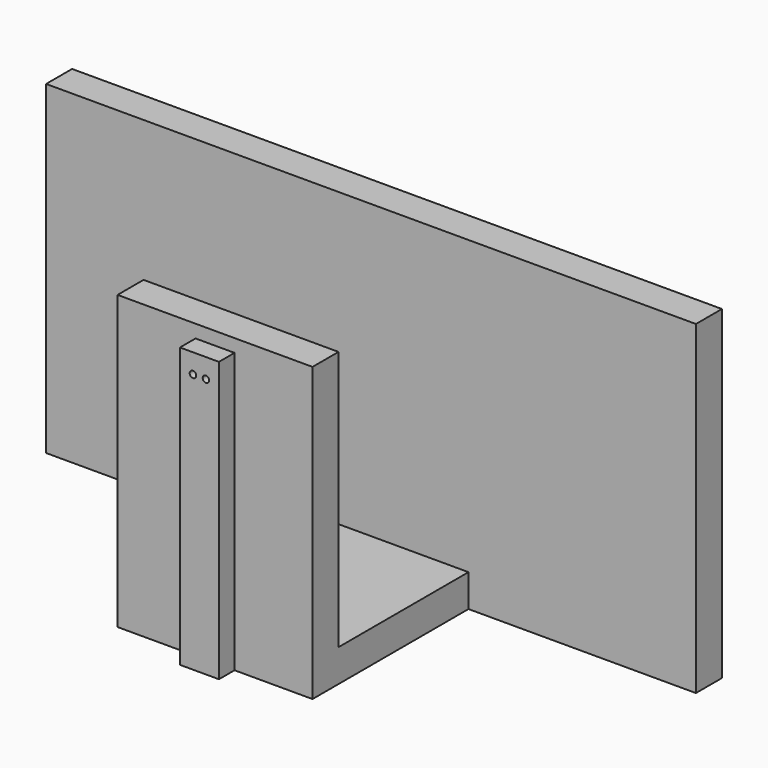
from build123d import *

# Parameters (mm, degrees)
F0_W      = 30
F0_H      = 30
F1_DEPTH  = 5
F2_W      = 30
F2_H      = 5
F3_DEPTH  = 40
F4_W      = 100
F4_H      = 50
F5_DEPTH  = 5
F6_R      = 2.5
F7_DEPTH  = 5
F8_W      = 6
F8_H      = 43
F9_DEPTH  = 3
F10_R     = 0.5
F11_DEPTH = 3


with BuildPart() as f1:
    # F0 (on Top) → F1 (new body)
    with BuildSketch(Plane.XY):
        Rectangle(F0_W, F0_H)
    extrude(amount=F1_DEPTH)

    # F2 (on face) → F3 (join)
    with BuildSketch(Plane.XY.offset(5)):
        with Locations((0, -12.5)):
            Rectangle(F2_W, F2_H)
    extrude(amount=F3_DEPTH)

    # F4 (on face) → F5 (join)
    with BuildSketch(Plane(origin=(0, 15, 0), x_dir=(-1, 0, 0), z_dir=(0, 1, 0))):
        with Locations((0, 25)):
            Rectangle(F4_W, F4_H)
    extrude(amount=F5_DEPTH)

    # F6 (on face) → F7 (cut, through all)
    with BuildSketch(Plane.XZ.offset(15)):
        with Locations((0, 40)):
            Circle(F6_R)
    extrude(amount=-F7_DEPTH, mode=Mode.SUBTRACT)

    # F8 (on face) → F9 (join)
    with BuildSketch(Plane.XZ.offset(15)):
        with Locations((0, 21.5)):
            Rectangle(F8_W, F8_H)
    extrude(amount=F9_DEPTH)

    # F10 (on face) → F11 (cut, through all)
    with BuildSketch(Plane.XZ.offset(18)):
        with Locations((1, 40)):
            Circle(F10_R)
        with Locations((-1, 40)):
            Circle(F10_R)
    extrude(amount=-F11_DEPTH, mode=Mode.SUBTRACT)


solid = f1.part
